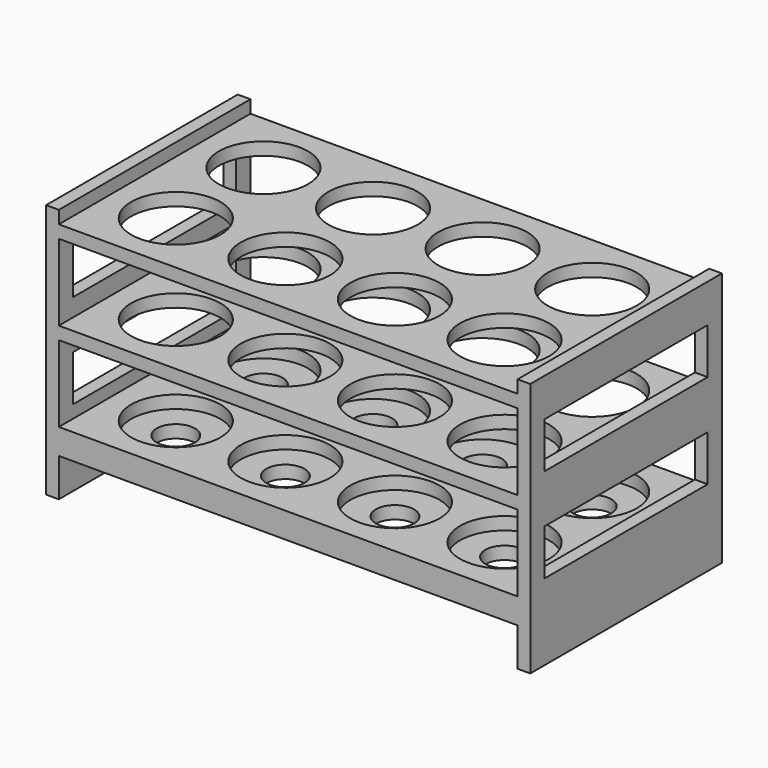
from build123d import *

# Parameters (mm, degrees)
F0_W           = 180
F0_H           = 94
F1_DEPTH       = 80
F2_R           = 17.5
F3_DEPTH       = 75
F4_W           = 94
F4_H           = 30
F5_DEPTH       = 180.001
F6_W           = 94
F6_H           = 100
F7_DEPTH       = 5
F8_W           = 94
F8_H           = 100
F9_DEPTH       = 5
F10_R          = 7.5
F11_DEPTH      = 25
F12_W          = 80
F12_H          = 18
F13_DEPTH      = 5.001
F13_DEPTH_BACK = 185.001


with BuildPart() as f1:
    # F0 (on Top) → F1 (new body)
    with BuildSketch(Plane.XY):
        with Locations((90, 47)):
            Rectangle(F0_W, F0_H)
    extrude(amount=F1_DEPTH)

    # F2 (on face) → F3 (cut)
    with BuildSketch(Plane.XY.offset(80)):
        with Locations((25.5, 25.5)):
            Circle(F2_R)
        with Locations((25.5, 68.5)):
            Circle(F2_R)
        with Locations((68.5, 25.5)):
            Circle(F2_R)
        with Locations((68.5, 68.5)):
            Circle(F2_R)
        with Locations((111.5, 25.5)):
            Circle(F2_R)
        with Locations((111.5, 68.5)):
            Circle(F2_R)
        with Locations((154.5, 25.5)):
            Circle(F2_R)
        with Locations((154.5, 68.5)):
            Circle(F2_R)
    extrude(amount=-F3_DEPTH, mode=Mode.SUBTRACT)

    # F4 (on face) → F5 (cut, through all)
    with BuildSketch(Plane.YZ.offset(180)):
        with Locations((47, 60)):
            Rectangle(F4_W, F4_H)
        with Locations((47, 25)):
            Rectangle(F4_W, F4_H)
    extrude(amount=-F5_DEPTH, mode=Mode.SUBTRACT)

    # F6 (on face) → F7 (join)
    with BuildSketch(Plane(origin=(0, 0, 0), x_dir=(0, -1, 0), z_dir=(-1, 0, 0))):
        with Locations((-47, 35)):
            Rectangle(F6_W, F6_H)
    extrude(amount=F7_DEPTH)

    # F8 (on face) → F9 (join)
    with BuildSketch(Plane.YZ.offset(180)):
        with Locations((47, 35)):
            Rectangle(F8_W, F8_H)
    extrude(amount=F9_DEPTH)

    # F10 (on face) → F11 (cut)
    with BuildSketch(Plane.XY.offset(5)):
        with Locations((25.5, 25.5)):
            Circle(F10_R)
        with Locations((25.5, 68.5)):
            Circle(F10_R)
        with Locations((68.5, 25.5)):
            Circle(F10_R)
        with Locations((68.5, 68.5)):
            Circle(F10_R)
        with Locations((111.5, 25.5)):
            Circle(F10_R)
        with Locations((111.5, 68.5)):
            Circle(F10_R)
        with Locations((154.5, 25.5)):
            Circle(F10_R)
        with Locations((154.5, 68.5)):
            Circle(F10_R)
    extrude(amount=-F11_DEPTH, mode=Mode.SUBTRACT)

    # F12 (on face) → F13 (cut, two sides)
    with BuildSketch(Plane(origin=(180, 0, 0), x_dir=(0, -1, 0), z_dir=(-1, 0, 0))) as f13_sk:
        with Locations((-47, 61)):
            Rectangle(F12_W, F12_H)
        with Locations((-47, 24)):
            Rectangle(F12_W, F12_H)
    extrude(amount=-F13_DEPTH, mode=Mode.SUBTRACT)
    extrude(f13_sk.sketch, amount=F13_DEPTH_BACK, mode=Mode.SUBTRACT)


solid = f1.part
